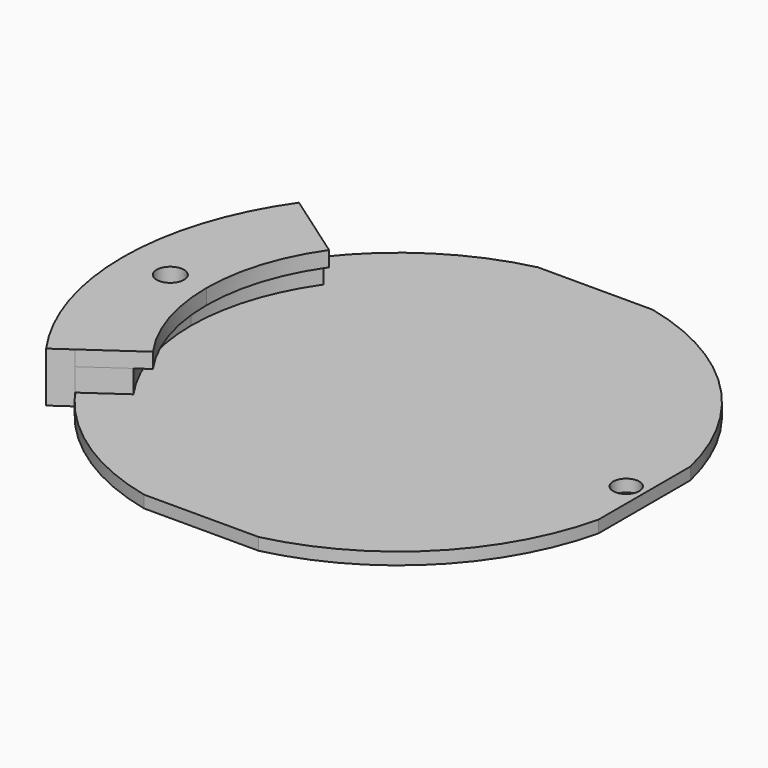
from build123d import *

# Parameters (mm, degrees)
SKETCH_R          = 0.86
PAD_DEPTH         = 0.8
PAD001_DEPTH      = 1.5
PAD002_DEPTH      = 1
PAD003_DEPTH      = 0.8
PAD003_DEPTH_BACK = 2.5
SKETCH004_R       = 0.9
HOLE_DEPTH        = 25


with BuildPart() as obj1:
    # Sketch → Pad (new body)
    with BuildSketch(Plane.XY):
        with BuildLine():
            ThreePointArc((-16.2, -3.777995), (-11.762509, -11.762509), (-3.777995, -16.2))
            Line((-3.777995, -16.2), (3.777995, -16.2))
            ThreePointArc((3.777995, -16.2), (11.762509, -11.762509), (16.2, -3.777995))
            Line((16.2, 3.777995), (16.2, -3.777995))
            ThreePointArc((16.2, 3.777995), (11.762509, 11.762509), (3.777995, 16.2))
            Line((-3.777995, 16.2), (3.777995, 16.2))
            ThreePointArc((-3.777995, 16.2), (-11.762509, 11.762509), (-16.2, 3.777995))
            Line((-16.2, 3.777995), (-16.2, -3.777995))
        make_face()
        with Locations((-15, 0)):
            Circle(SKETCH_R, mode=Mode.SUBTRACT)
        with Locations((15, 0)):
            Circle(SKETCH_R, mode=Mode.SUBTRACT)
    extrude(amount=-PAD_DEPTH)


with BuildPart() as body:
    # Sketch001 → Pad001 (new body)
    with BuildSketch(Plane.XY):
        with BuildLine():
            ThreePointArc((-11.168892, 7.820543), (-13.003645, 4.100033), (-13.6347, 0))
            Line((-16.6347, 0), (-13.6347, 0))
            ThreePointArc((-13.626349, 9.541272), (-15.864795, 5.002151), (-16.6347, 0))
            Line((-13.626349, 9.541272), (-11.168892, 7.820543))
        make_face()
    pad001 = extrude(amount=PAD001_DEPTH)

    # Mirrored: Pad001 across XZ
    add(pad001.mirror(Plane.XZ))

    # Sketch002 (on Face4 of Mirrored) → Pad002 (join)
    with BuildSketch(Plane.XY.offset(1.5)):
        with BuildLine():
            ThreePointArc((-13.626349, 9.541272), (-15.864795, 5.002151), (-16.6347, 0))
            Line((-16.6347, 0), (-12.6347, 0))
            ThreePointArc((-10.34974, 7.246966), (-12.049928, 3.799328), (-12.6347, 0))
            Line((-13.626349, 9.541272), (-10.34974, 7.246966))
        make_face()
    pad002 = extrude(amount=PAD002_DEPTH)

    # Mirrored001: Pad002 across XZ
    add(pad002.mirror(Plane.XZ))

    # Sketch003 (on Face2 of Mirrored001) → Pad003 (join, two sides)
    with BuildSketch(Plane(origin=(0, 0, 0), x_dir=(1, 0, 0), z_dir=(0, 0, -1))) as pad003_sk:
        with BuildLine():
            ThreePointArc((-14.855077, 10.401637), (-17.295371, 5.453209), (-18.1347, 0))
            Line((-18.1347, 0), (-16.6347, 0))
            ThreePointArc((-13.626349, 9.541272), (-15.864795, 5.002151), (-16.6347, 0))
            Line((-14.855077, 10.401637), (-13.626349, 9.541272))
        make_face()
    pad003 = extrude(amount=PAD003_DEPTH) + extrude(pad003_sk.sketch, amount=-PAD003_DEPTH_BACK)

    # Mirrored002: Pad003 across XZ
    add(pad003.mirror(Plane.XZ))

    # Sketch004 (on Face2 of Mirrored002) → Hole (cut)
    with BuildSketch(Plane(origin=(0, 0, 0), x_dir=(1, 0, 0), z_dir=(0, 0, -1))):
        with Locations((-15, 0)):
            Circle(SKETCH004_R)
    extrude(amount=-HOLE_DEPTH, mode=Mode.SUBTRACT)


solid = Compound([obj1.part, body.part])
